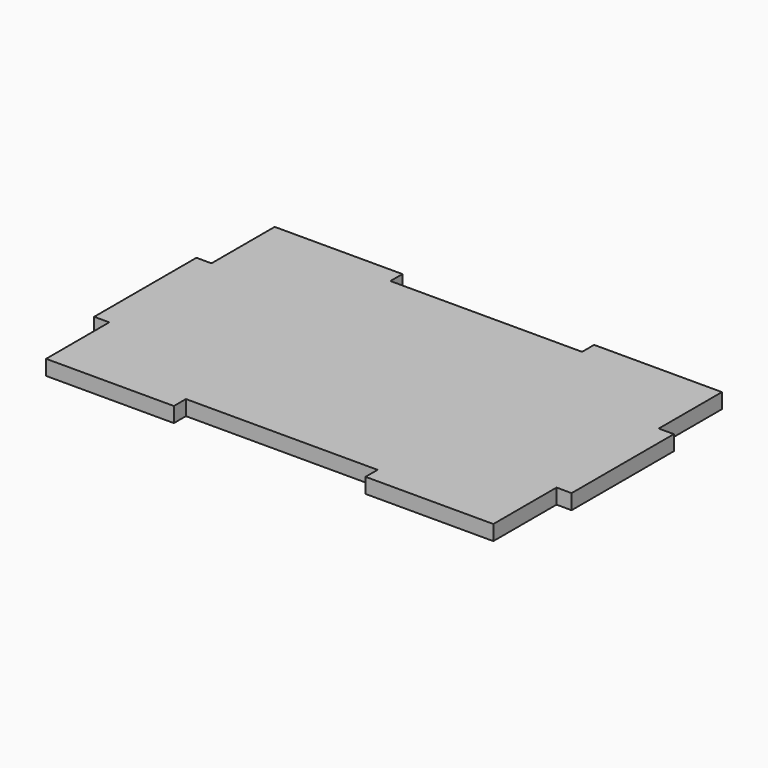
from build123d import *

# Parameters (mm, degrees)
F1_DEPTH = 2.9972


with BuildPart() as f1:
    # F0 (on Top) → F1 (new body)
    with BuildSketch(Plane.XY):
        Polygon((19.05, 0), (0, 0), (-19.05, 0), (-19.05, 2.9972), (-44.45, 2.9972), (-44.45, 0), (-44.45, -12.7), (-47.4472, -12.7), (-47.4472, -25.4), (-47.4472, -38.1), (-44.45, -38.1), (-44.45, -50.8), (-44.45, -53.7972), (-19.05, -53.7972), (-19.05, -50.8), (0, -50.8), (19.05, -50.8), (19.05, -53.7972), (44.45, -53.7972), (44.45, -50.8), (44.45, -38.1), (47.4472, -38.1), (47.4472, -25.4), (47.4472, -12.7), (44.45, -12.7), (44.45, 0), (44.45, 2.9972), (19.05, 2.9972), align=None)
    extrude(amount=F1_DEPTH)


solid = f1.part
